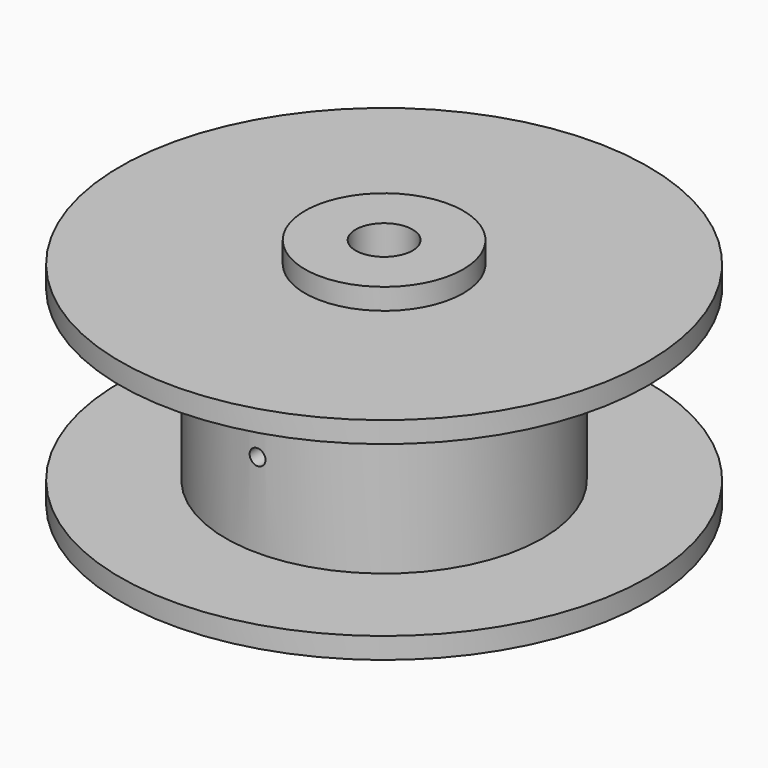
from build123d import *

# Parameters (mm, degrees)
F0_R           = 31.75
F1_DEPTH       = 2.54
F2_R           = 19.05
F3_DEPTH       = 20.32
F4_R           = 31.75
F4_R_2         = 19.05
F5_DEPTH       = 2.54
F6_R           = 9.525
F7_DEPTH       = 2.54
F8_R           = 9.525
F9_DEPTH       = 2.54
F10_R          = 3.429
F11_DEPTH      = 30.48
F12_R          = 0.9525
F13_DEPTH      = 25.4
F13_DEPTH_BACK = 25.4


with BuildPart() as f1:
    # F0 (on Top) → F1 (new body)
    with BuildSketch(Plane.XY):
        Circle(F0_R)
    extrude(amount=F1_DEPTH)

    # F2 (on face) → F3 (join)
    with BuildSketch(Plane.XY.offset(2.54)):
        Circle(F2_R)
    extrude(amount=F3_DEPTH)

    # F4 (on face) → F5 (join)
    with BuildSketch(Plane.XY.offset(22.86)):
        Circle(F4_R)
        Circle(F4_R_2, mode=Mode.SUBTRACT)
        Circle(F4_R_2)
    extrude(amount=F5_DEPTH)

    # F6 (on face) → F7 (join)
    with BuildSketch(Plane.XY.offset(25.4)):
        Circle(F6_R)
    extrude(amount=F7_DEPTH)

    # F8 (on face) → F9 (join)
    with BuildSketch(Plane(origin=(0, 0, 0), x_dir=(1, 0, 0), z_dir=(0, 0, -1))):
        Circle(F8_R)
    extrude(amount=F9_DEPTH)

    # F10 (on face) → F11 (cut)
    with BuildSketch(Plane(origin=(0, 0, -2.54), x_dir=(1, 0, 0), z_dir=(0, 0, -1))):
        Circle(F10_R)
    extrude(amount=-F11_DEPTH, mode=Mode.SUBTRACT)

    # F12 (on Front) → F13 (cut, two sides)
    with BuildSketch(Plane.XZ) as f13_sk:
        with Locations((0, 12.7)):
            Circle(F12_R)
    extrude(amount=-F13_DEPTH, mode=Mode.SUBTRACT)
    extrude(f13_sk.sketch, amount=F13_DEPTH_BACK, mode=Mode.SUBTRACT)


solid = f1.part
